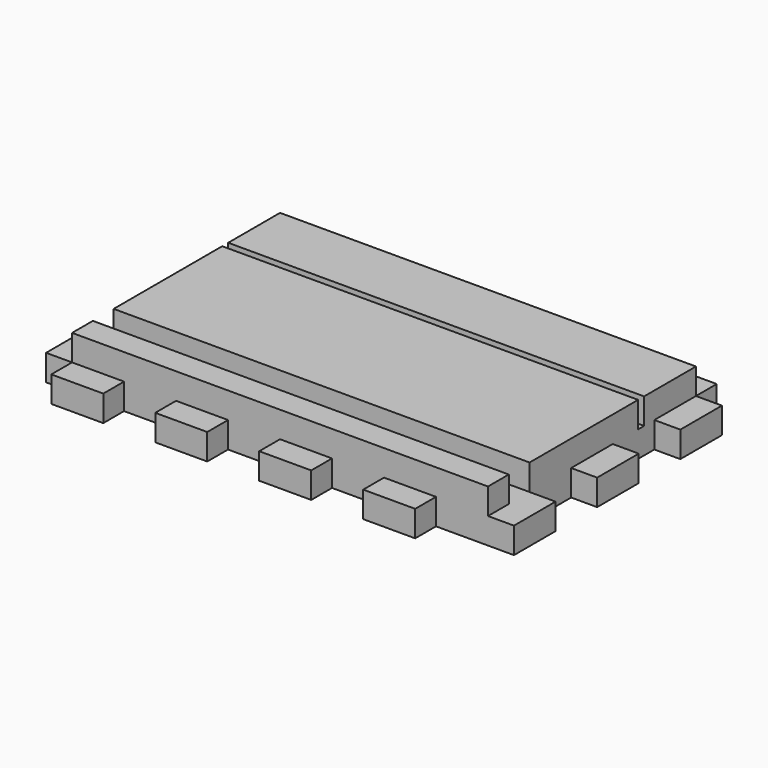
from build123d import *

# Parameters (mm, degrees)
F0_W      = 101.6
F0_H      = 63.5
F1_DEPTH  = 6.35
F2_W      = 101.6
F2_H      = 6.35
F3_DEPTH  = 6.35
F4_W      = 101.6
F4_H      = 20.32
F5_DEPTH  = 6.35
F6_W      = 101.6
F6_H      = 8.8265
F7_DEPTH  = 6.35
F8_W      = 12.7
F8_H      = 6.35
F9_DEPTH  = 6.35
F10_W     = 12.7
F10_H     = 6.35
F11_DEPTH = 6.35
F12_W     = 101.6
F12_H     = 6.9977
F13_DEPTH = 6.35
F14_W     = 12.7
F14_H     = 6.35
F15_DEPTH = 6.35
F16_W     = 12.7
F16_H     = 6.35
F17_DEPTH = 6.35
F19_DEPTH = 6.35


with BuildPart() as f1:
    # F0 (on Top) → F1 (new body)
    with BuildSketch(Plane.XY):
        Rectangle(F0_W, F0_H)
    extrude(amount=F1_DEPTH)

    # F2 (on face) → F3 (join)
    with BuildSketch(Plane.XY.offset(6.35)):
        with Locations((0, -28.575)):
            Rectangle(F2_W, F2_H)
    extrude(amount=F3_DEPTH)

    # F4 (on face) → F5 (join)
    with BuildSketch(Plane.XY.offset(6.35)):
        with Locations((0, 3.937)):
            Rectangle(F4_W, F4_H)
    extrude(amount=F5_DEPTH)

    # F6 (on face) → F7 (join)
    with BuildSketch(Plane.XY.offset(6.35)):
        with Locations((0, 27.33675)):
            Rectangle(F6_W, F6_H)
    extrude(amount=F7_DEPTH)

    # F8 (on face) → F9 (join)
    with BuildSketch(Plane.XZ.offset(31.75)):
        with Locations((-44.45, 3.175)):
            Rectangle(F8_W, F8_H)
        with Locations((-19.05, 3.175)):
            Rectangle(F8_W, F8_H)
        with Locations((6.35, 3.175)):
            Rectangle(F8_W, F8_H)
        with Locations((31.75, 3.175)):
            Rectangle(F8_W, F8_H)
    extrude(amount=F9_DEPTH)

    # F10 (on face) → F11 (join)
    with BuildSketch(Plane(origin=(0, 31.75, 0), x_dir=(-1, 0, 0), z_dir=(0, 1, 0))):
        with Locations((-44.45, 3.175)):
            Rectangle(F10_W, F10_H)
        with Locations((-19.05, 3.175)):
            Rectangle(F10_W, F10_H)
        with Locations((6.35, 3.175)):
            Rectangle(F10_W, F10_H)
        with Locations((31.75, 3.175)):
            Rectangle(F10_W, F10_H)
    extrude(amount=F11_DEPTH)

    # F12 (on face) → F13 (join)
    with BuildSketch(Plane.XY.offset(6.35)):
        with Locations((0, 19.42465)):
            Rectangle(F12_W, F12_H)
    extrude(amount=F13_DEPTH)

    # F14 (on face) → F15 (join)
    with BuildSketch(Plane.YZ.offset(50.8)):
        Polygon((-19.05, 0), (-19.05, 6.35), (-25.4, 6.35), (-31.75, 6.35), (-31.75, 0), align=None)
        Polygon((6.35, 6.35), (0, 6.35), (-6.223, 6.35), (-6.35, 6.35), (-6.35, 0), (6.35, 0), align=None)
        with Locations((25.4, 3.175)):
            Rectangle(F14_W, F14_H)
    extrude(amount=F15_DEPTH)

    # F16 (on face) → F17 (join)
    with BuildSketch(Plane(origin=(-50.8, 0, 0), x_dir=(0, -1, 0), z_dir=(-1, 0, 0))):
        with Locations((-25.4, 3.175)):
            Rectangle(F16_W, F16_H)
        Polygon((6.223, 6.35), (0, 6.35), (-6.35, 6.35), (-6.35, 0), (6.35, 0), (6.35, 6.35), align=None)
        Polygon((25.4, 6.35), (19.05, 6.35), (19.05, 0), (31.75, 0), (31.75, 6.35), align=None)
    extrude(amount=F17_DEPTH)

    # F18 (on face) → F19 (join)
    with BuildSketch(Plane.XY.offset(6.35)):
        Polygon((50.8, -6.223), (-50.8, -6.223), (-50.8, -6.35), (-50.8, -19.05), (50.8, -19.05), (50.8, -6.35), align=None)
    extrude(amount=F19_DEPTH)


solid = f1.part
